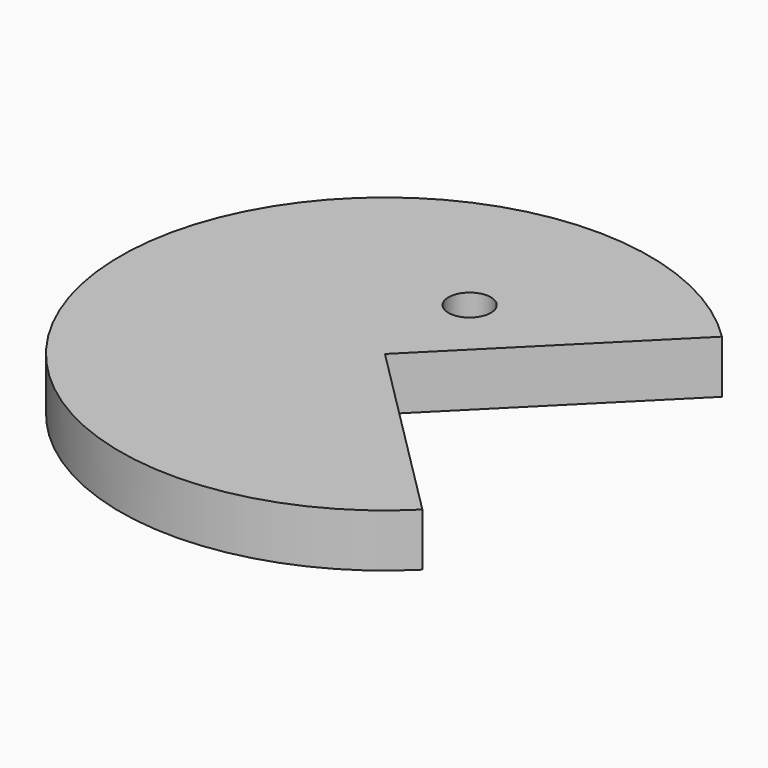
from build123d import *

# Parameters (mm, degrees)
CYLINDER001_R            = 2
CYLINDER001_DEPTH        = 10
CYLINDER_W               = 25
CYLINDER_H               = 5
CYLINDER_ANGLE           = 270
CYLINDER_PLACEMENT_ANGLE = 45


with BuildPart() as ull:
    # Cylinder001 → Cylinder001 (new body)
    with BuildSketch(Plane(origin=(0, 10, -2), x_dir=(1, 0, 0), z_dir=(0, 0, 1))):
        Circle(CYLINDER001_R)
    extrude(amount=CYLINDER001_DEPTH)


with BuildPart() as obj1:
    # Cylinder → Cylinder (revolve)
    with BuildSketch(Plane.XZ):
        with Locations((12.5, 2.5)):
            Rectangle(CYLINDER_W, CYLINDER_H)
    revolve(axis=Axis((0, 0, 0), (0, 0, 1)), revolution_arc=CYLINDER_ANGLE)


with BuildPart() as obj1_1:
    # Cylinder placement: moved
    add(obj1.part.rotate(Axis((0, 0, 0), (0, 0, 1)), CYLINDER_PLACEMENT_ANGLE))

    # Cut: cut ull
    add(ull.part, mode=Mode.SUBTRACT)


solid = obj1_1.part
